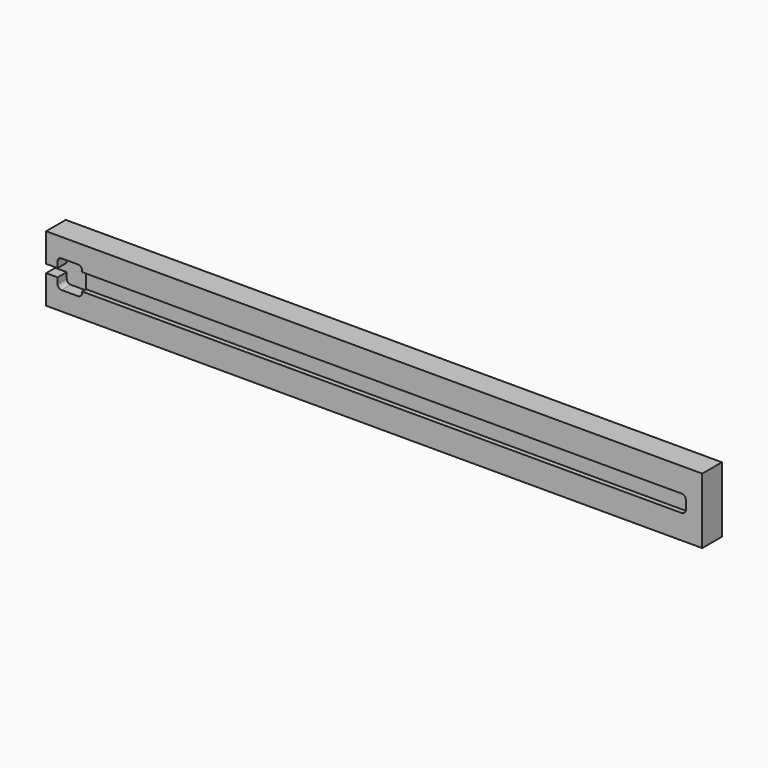
from build123d import *

# Parameters (mm, degrees)
F0_W     = 508
F0_H     = 50.8
F1_DEPTH = 19.05
F3_DEPTH = 3.81
F5_DEPTH = 8.89


with BuildPart() as f1:
    # F0 (on Front) → F1 (new body)
    with BuildSketch(Plane.XZ):
        with Locations((254, 25.4)):
            Rectangle(F0_W, F0_H)
    extrude(amount=F1_DEPTH)

    # F2 (on face) → F3 (cut)
    with BuildSketch(Plane.XZ.offset(19.05)):
        with BuildLine():
            Line((492.125, 32.004), (27.94, 32.004))
            Line((27.94, 32.004), (27.94, 33.02))
            ThreePointArc((27.94, 33.02), (27.010064, 35.265064), (24.765, 36.195))
            Line((24.765, 36.195), (12.065, 36.195))
            ThreePointArc((12.065, 36.195), (9.819936, 35.265064), (8.89, 33.02))
            Line((8.89, 33.02), (8.89, 28.575))
            Line((8.89, 28.575), (0, 28.575))
            Line((0, 28.575), (0, 22.225))
            Line((0, 22.225), (8.89, 22.225))
            Line((8.89, 22.225), (8.89, 17.78))
            ThreePointArc((8.89, 17.78), (9.819936, 15.534936), (12.065, 14.605))
            Line((12.065, 14.605), (24.765, 14.605))
            ThreePointArc((24.765, 14.605), (27.010064, 15.534936), (27.94, 17.78))
            Line((27.94, 17.78), (27.94, 18.796))
            Line((27.94, 18.796), (492.125, 18.796))
            ThreePointArc((492.125, 18.796), (494.370064, 19.725936), (495.3, 21.971))
            Line((495.3, 21.971), (495.3, 28.829))
            ThreePointArc((495.3, 28.829), (494.370064, 31.074064), (492.125, 32.004))
        make_face()
    extrude(amount=-F3_DEPTH, mode=Mode.SUBTRACT)

    # F4 (on face) → F5 (cut)
    with BuildSketch(Plane.XZ.offset(19.05)):
        with BuildLine():
            Line((12.065, 14.605), (24.765, 14.605))
            ThreePointArc((24.765, 14.605), (27.010064, 15.534936), (27.94, 17.78))
            Line((27.94, 17.78), (27.94, 33.02))
            ThreePointArc((27.94, 33.02), (27.010064, 35.265064), (24.765, 36.195))
            Line((24.765, 36.195), (12.065, 36.195))
            ThreePointArc((12.065, 36.195), (9.819936, 35.265064), (8.89, 33.02))
            Line((8.89, 33.02), (8.89, 28.575))
            Line((8.89, 28.575), (-2.839666, 28.575))
            ThreePointArc((-2.839666, 28.575), (-5.08473, 27.645064), (-6.014666, 25.4))
            ThreePointArc((-6.014666, 25.4), (-5.08473, 23.154936), (-2.839666, 22.225))
            Line((-2.839666, 22.225), (8.89, 22.225))
            Line((8.89, 22.225), (8.89, 17.78))
            ThreePointArc((8.89, 17.78), (9.819936, 15.534936), (12.065, 14.605))
        make_face()
    extrude(amount=-F5_DEPTH, mode=Mode.SUBTRACT)


solid = f1.part
